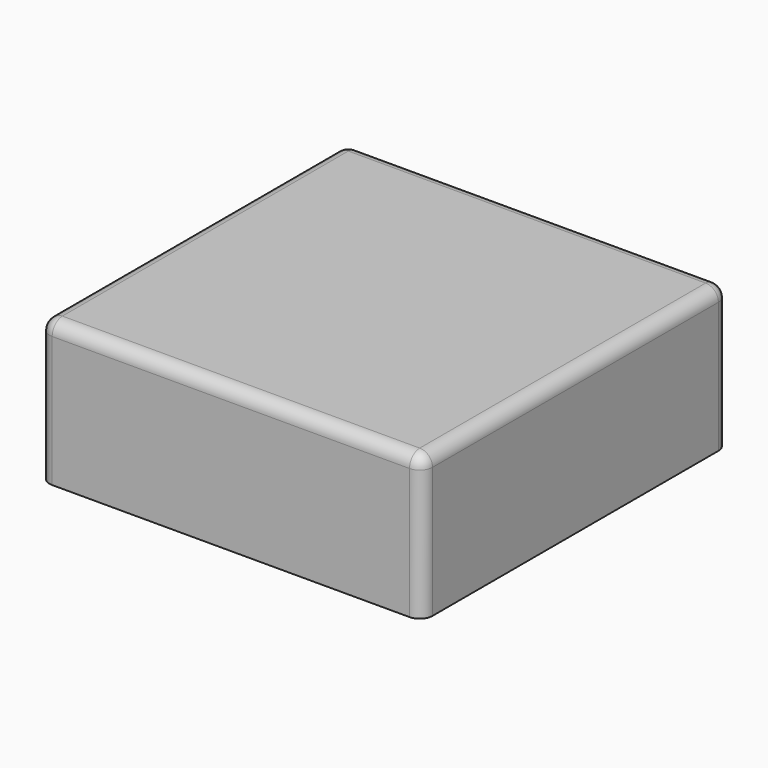
from build123d import *

# Parameters (mm, degrees)
F0_W      = 152.4
F0_H      = 152.4
F1_DEPTH  = 57.15
F2_R      = 5.08
F3_R      = 18.8722
F3_R_2    = 21.6916
F3_R_3    = 28.9306
F3_R_4    = 34.798
F3_R_5    = 15.2654
F3_R_6    = 24.9936
F4_DEPTH  = 50.8
F6_DEPTH  = 17.78
F8_DEPTH  = 50.8
F9_W      = 20.9688283503
F9_H      = 38.3084379137
F9_W_2    = 32.3605462909
F9_H_2    = 14.012824744
F9_W_3    = 35.6873329729
F9_H_3    = 6.3511356711
F9_W_4    = 32.1589261293
F9_W_5    = 20.5655843019
F9_H_4    = 34.1751612723
F10_DEPTH = 50.8
F12_DEPTH = 50.8
F13_W     = 32.2134252638
F13_H     = 13.5635472834
F14_DEPTH = 50.8


with BuildPart() as f1:
    # F0 (on Top) → F1 (new body)
    with BuildSketch(Plane.XY):
        Rectangle(F0_W, F0_H)
    extrude(amount=F1_DEPTH)

    # F2
    f2_edges = [f1.edges().sort_by_distance(p)[0] for p in [
        (-76.2, -76.2, 28.575),
        (76.2, -76.2, 28.575),
        (76.2, 76.2, 28.575),
        (-76.2, 76.2, 28.575),
        (76.2, 0, 57.15),
        (0, 76.2, 57.15),
        (-76.2, 0, 57.15),
        (0, -76.2, 57.15),
    ]]
    fillet(f2_edges, radius=F2_R)

    # F3 (on Top) → F4 (cut)
    with BuildSketch(Plane.XY):
        with Locations((-52.7972951531, -54.257504642)):
            Circle(F3_R)
        with Locations((-9.7686620429, -51.1906966567)):
            Circle(F3_R_2)
        with Locations((43.0286340415, -43.4057191014)):
            Circle(F3_R_3)
        with Locations((-39.074651897, 0)):
            Circle(F3_R_4)
        with Locations((11.8619473651, -10.1426448673)):
            Circle(F3_R_5)
        with Locations((47.4477931857, 12.9763726145)):
            Circle(F3_R_6)
    extrude(amount=F4_DEPTH, mode=Mode.SUBTRACT)

    # F5 (on Right) → F6 (cut, symmetric)
    with BuildSketch(Plane.YZ):
        with BuildLine():
            ThreePointArc((65.2309656143, 15.4240769103), (65.2771394427, 16.0320044258), (65.2925438309, 16.6414882988))
            ThreePointArc((65.2925438309, 16.6414882988), (53.3991094682, 28.7052683959), (41.1674231956, 16.9845848792))
            Line((41.1674231956, 16.9845848792), (65.2309656143, 16.9845848792))
            Line((65.2309656143, 16.9845848792), (65.2309656143, 15.4240769103))
        make_face()
        with BuildLine():
            Line((41.1674231956, 16.2983917184), (41.1674231956, 16.9845848792))
            ThreePointArc((41.1674231956, 16.9845848792), (41.1625438309, 16.6414882988), (41.1674231956, 16.2983917184))
        make_face()
        with BuildLine():
            Line((65.2309656143, 16.9845848792), (41.1674231956, 16.9845848792))
            Line((41.1674231956, 16.9845848792), (41.1674231956, 16.2983917184))
            ThreePointArc((41.1674231956, 16.2983917184), (52.7894681686, 4.584444104), (65.2309656143, 15.4240769103))
            Line((65.2309656143, 15.4240769103), (65.2309656143, 16.9845848792))
        make_face()
        with BuildLine():
            Line((65.2309656143, 0), (65.2309656143, 15.4240769103))
            ThreePointArc((65.2309656143, 15.4240769103), (52.7894681686, 4.584444104), (41.1674231956, 16.2983917184))
            Line((41.1674231956, 16.2983917184), (41.1674231956, 0))
            Line((41.1674231956, 0), (65.2309656143, 0))
        make_face()
    extrude(amount=F6_DEPTH, both=True, mode=Mode.SUBTRACT)

    # F7 (on Right) → F8 (cut, symmetric)
    with BuildSketch(Plane.YZ):
        with BuildLine():
            ThreePointArc((50.4576266435, 14.7510202975), (54.1037261363, 11.1856242821), (57.6962237544, 14.8050235584))
            ThreePointArc((57.6962237544, 14.8050235584), (57.6961230307, 14.8320259403), (57.6958208653, 14.8590268194))
            Line((57.6958208653, 14.8590268194), (50.4576266435, 14.8590268194))
            Line((50.4576266435, 14.8590268194), (50.4576266435, 14.7510202975))
        make_face()
        with BuildLine():
            ThreePointArc((57.6958208653, 14.8590268194), (57.6961230307, 14.8320259403), (57.6962237544, 14.8050235584))
            ThreePointArc((57.6962237544, 14.8050235584), (54.1037261363, 11.1856242821), (50.4576266435, 14.7510202975))
            Line((50.4576266435, 14.7510202975), (50.4576266435, -1.8991571851))
            Line((50.4576266435, -1.8991571851), (57.7001795173, -1.8991571851))
            Line((57.7001795173, -1.8991571851), (57.7001795173, 14.8590268194))
            Line((57.7001795173, 14.8590268194), (57.6958208653, 14.8590268194))
        make_face()
        with BuildLine():
            Line((50.4576266435, 14.8590268194), (57.6958208653, 14.8590268194))
            ThreePointArc((57.6958208653, 14.8590268194), (54.0767237544, 18.4245235584), (50.4576266435, 14.8590268194))
        make_face()
        with BuildLine():
            ThreePointArc((50.4576266435, 14.8590268194), (50.4572237544, 14.8050235584), (50.4576266435, 14.7510202975))
            Line((50.4576266435, 14.7510202975), (50.4576266435, 14.8590268194))
        make_face()
    extrude(amount=F8_DEPTH, both=True, mode=Mode.SUBTRACT)

    # F9 (on Top) → F10 (cut)
    with BuildSketch(Plane.XY):
        with Locations((-63.155984506, 53.8409817964)):
            Rectangle(F9_W, F9_H)
        with Locations((-35.3823676705, 65.9887883812)):
            Rectangle(F9_W_2, F9_H_2)
        with Locations((0.0529354438, 69.8196329176)):
            Rectangle(F9_W_3, F9_H_3)
        with Locations((35.0849926472, 65.9887883812)):
            Rectangle(F9_W_4, F9_H_2)
        with Locations((62.7577975392, 55.9076201171)):
            Rectangle(F9_W_5, F9_H_4)
    extrude(amount=F10_DEPTH, mode=Mode.SUBTRACT)

    # F11 (on Top) → F12 (cut)
    with BuildSketch(Plane.XY):
        Polygon((29.9793016165, 38.9572679996), (-17.8322065622, 38.9572679996), (-17.8322065622, 30.9886820614), (1.4958502725, 7.2524729185), (19.6370966733, 7.2524729185), (19.6370966733, 17.255589366), align=None)
    extrude(amount=F12_DEPTH, mode=Mode.SUBTRACT)

    # F13 (on Top) → F14 (cut)
    with BuildSketch(Plane.XY):
        with Locations((-35.3740798309, 42.3396099359)):
            Rectangle(F13_W, F13_H)
        Polygon((50.4153631628, 49.1213835776), (19.0496556461, 49.1213835776), (19.0496556461, 40.1355363429), (31.2568470836, 40.1355363429), (34.3086458743, 37.0837338269), (50.4153631628, 40.1355363429), align=None)
    extrude(amount=F14_DEPTH, mode=Mode.SUBTRACT)


solid = f1.part
